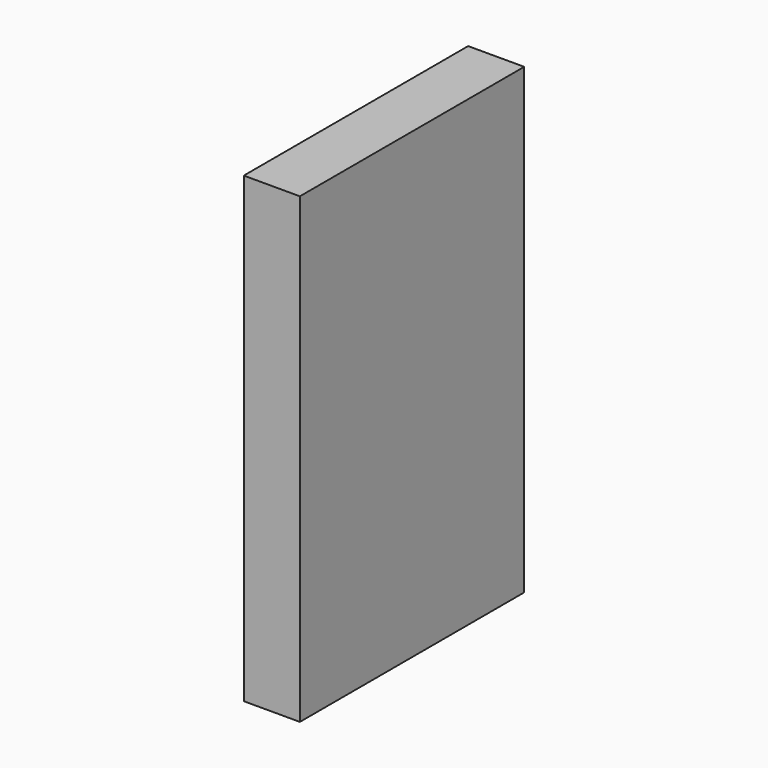
from build123d import *

# Parameters (mm, degrees)
F0_W     = 40
F0_H     = 200
F1_DEPTH = 330
F2_W     = 9
F2_H     = 25
F3_DEPTH = 25
F4_SIZE  = 5


with BuildPart() as f1:
    # F0 (on Top) → F1 (new body)
    with BuildSketch(Plane.XY):
        Rectangle(F0_W, F0_H)
    extrude(amount=F1_DEPTH)

    # F2 (on face) → F3 (cut)
    with BuildSketch(Plane(origin=(-20, 0, 0), x_dir=(0, -1, 0), z_dir=(-1, 0, 0))):
        Polygon((9, 25), (26, 25), (26, 275), (-26, 275), (-26, 25), (-9, 25), (0, 25), align=None)
        with Locations((4.5, 12.5)):
            Rectangle(F2_W, F2_H)
        with Locations((-4.5, 12.5)):
            Rectangle(F2_W, F2_H)
    extrude(amount=-F3_DEPTH, mode=Mode.SUBTRACT)

    # F4
    f4_edges = [f1.edges().sort_by_distance(p)[0] for p in [
        (-7.5, 9, 25),
        (-7.5, -9, 25),
    ]]
    chamfer(f4_edges, length=F4_SIZE)


solid = f1.part
